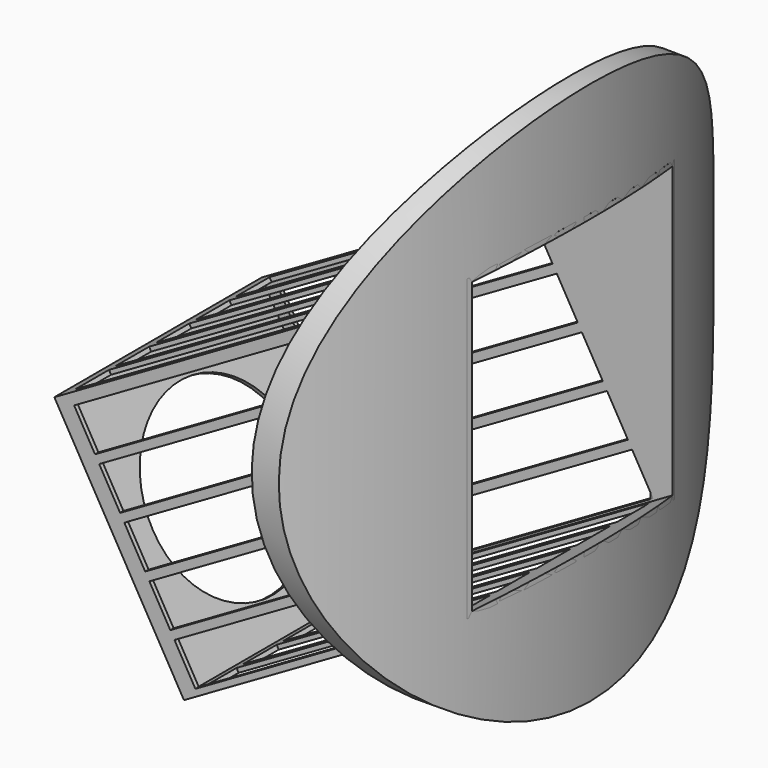
from build123d import *

# Parameters (mm, degrees)
F0_R      = 52.5
F0_R_2    = 50
F1_DEPTH  = 50
F2_R      = 32.5
F3_DEPTH  = 60
F4_W      = 31
F4_H      = 31
F6_DEPTH  = 60
F7_W      = 30
F7_H      = 30
F8_DEPTH  = 59.5
F9_W      = 35
F9_H      = 5
F10_DEPTH = 50
F11_W     = 35
F11_H     = 5
F12_DEPTH = 50
F13_R     = 11
F14_DEPTH = 25
F15_ANGLE = 30
F17_W     = 30
F17_H     = 30
F18_DEPTH = 25
F19_R     = 52.5
F20_DEPTH = 50


with BuildPart() as f1:
    # F0 (on Top) → F1 (new body, symmetric)
    with BuildSketch(Plane.XY):
        Circle(F0_R)
        Circle(F0_R_2, mode=Mode.SUBTRACT)
    extrude(amount=F1_DEPTH, both=True)


with BuildPart() as f3:
    # F2 (on Right) → F3 (new body)
    with BuildSketch(Plane.YZ):
        Circle(F2_R)
    extrude(amount=F3_DEPTH)

    # F5: intersect F1
    add(f1.part, mode=Mode.INTERSECT)


with BuildPart() as f6:
    # F4 (on Right) → F6 (new body)
    with BuildSketch(Plane.YZ):
        Rectangle(F4_W, F4_H)
    extrude(amount=F6_DEPTH)


with BuildPart() as f8_tool:
    # F7 (on face) → F8 (new body)
    with BuildSketch(Plane.YZ.offset(60)):
        Rectangle(F7_W, F7_H)
    extrude(amount=-F8_DEPTH)


with BuildPart() as f3_1:
    add(f3.part)

    # F8: cut by f8_tool
    add(f8_tool.part, mode=Mode.SUBTRACT)

    # F17 (on face) → F18 (cut)
    with BuildSketch(Plane(origin=(47.798385, 0, 27.59641), x_dir=(0, 1, 0), z_dir=(0.866025, 0, 0.5))):
        with Locations((0, -25.426279)):
            Rectangle(F17_W, F17_H)
    extrude(amount=-F18_DEPTH, mode=Mode.SUBTRACT)


with BuildPart() as f6_1:
    add(f6.part)

    # F8: cut by f8_tool
    add(f8_tool.part, mode=Mode.SUBTRACT)

    # F9 (on face) → F10 (cut)
    with BuildSketch(Plane.XY.offset(15.5)):
        with Locations((19.5, -12)):
            Rectangle(F9_W, F9_H)
        with Locations((19.5, -6)):
            Rectangle(F9_W, F9_H)
        with Locations((19.5, 0)):
            Rectangle(F9_W, F9_H)
        with Locations((19.5, 6)):
            Rectangle(F9_W, F9_H)
        with Locations((19.5, 12)):
            Rectangle(F9_W, F9_H)
    extrude(amount=-F10_DEPTH, mode=Mode.SUBTRACT)

    # F11 (on face) → F12 (cut)
    with BuildSketch(Plane.XZ.offset(15.5)):
        with Locations((19.5, 11.734556)):
            Rectangle(F11_W, F11_H)
        with Locations((19.5, 5.734556)):
            Rectangle(F11_W, F11_H)
        with Locations((19.5, -0.265444)):
            Rectangle(F11_W, F11_H)
        with Locations((19.5, -6.265444)):
            Rectangle(F11_W, F11_H)
        with Locations((19.5, -12.265444)):
            Rectangle(F11_W, F11_H)
    extrude(amount=-F12_DEPTH, mode=Mode.SUBTRACT)

    # F13 (on face) → F14 (cut)
    with BuildSketch(Plane(origin=(0, 0, 0), x_dir=(0, -1, 0), z_dir=(-1, 0, 0))):
        Circle(F13_R)
    extrude(amount=-F14_DEPTH, mode=Mode.SUBTRACT)


with BuildPart() as f6_2:
    # F15: moved
    add(f6_1.part.rotate(Axis((0, 0, 15.5), (0, -1, 0)), F15_ANGLE))


with BuildPart() as f6_3:
    # F16: moved
    add(f6_2.part.moved(Location((0.8, 0, -26.5))))


with BuildPart() as f20:
    # F19 (on Top) → F20 (new body, symmetric)
    with BuildSketch(Plane.XY):
        Circle(F19_R)
    extrude(amount=F20_DEPTH, both=True)


with BuildPart() as f6_4:
    add(f6_3.part)

    # F21: intersect F20
    add(f20.part, mode=Mode.INTERSECT)


solid = Compound([f3_1.part, f6_4.part])
